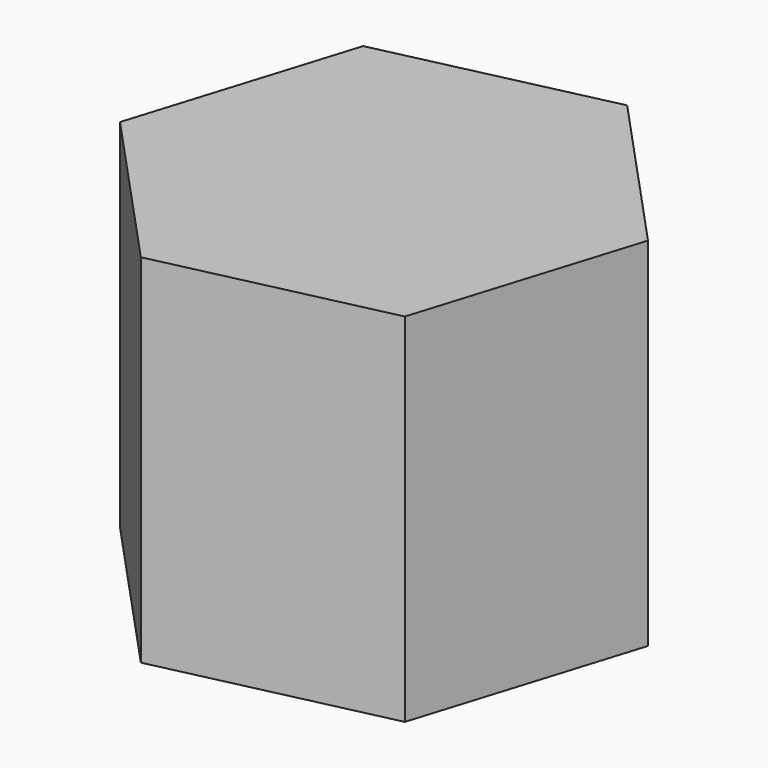
from build123d import *


with BuildPart() as f2:
    # F2: sweep along a path in F1
    with BuildLine(Plane.XZ) as f2_path:
        Line((0, 0), (0, 66.5748342872))
    # F0 (on Top) → F2 (sweep)
    with BuildSketch(Plane.XY):
        Polygon((41.7071853632, 9.423636811), (12.6924838072, 40.8313004503), (-29.0147015559, 31.4076636393), (-41.7071853632, -9.423636811), (-12.6924838072, -40.8313004503), (29.0147015559, -31.4076636393), align=None)
    sweep(path=f2_path.line)


solid = f2.part
